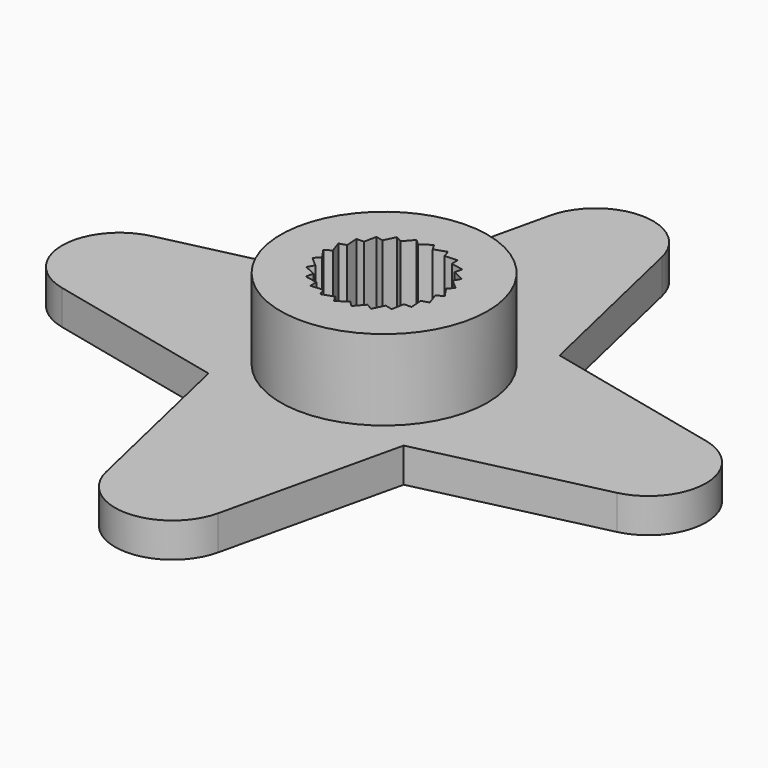
from build123d import *

# Parameters (mm, degrees)
F1_R     = 3.4943107557
F1_R_2   = 3.0428811149
F2_DEPTH = 5
F1_R_3   = 4.5
F3_DEPTH = 5
F0_R     = 4.5
F0_R_2   = 2.5
F0_R_3   = 1.2499972105
F4_DEPTH = 1.5
F5_DEPTH = 5


with BuildPart() as f2:
    # F1 (on Top) → F2 (new body)
    with BuildSketch(Plane.XY):
        with Locations((0.0001326702, 0.0020665845)):
            Circle(F1_R)
        with Locations((-0.0001288142, 0.0001297904)):
            Circle(F1_R_2, mode=Mode.SUBTRACT)
    extrude(amount=F2_DEPTH)

    # F1 (on Top) → F3 (join)
    with BuildSketch(Plane.XY):
        with Locations((-0.0001288142, 0.0001297904)):
            Circle(F1_R_3)
        with Locations((0.0001326702, 0.0020665845)):
            Circle(F1_R, mode=Mode.SUBTRACT)
    extrude(amount=F3_DEPTH)

    # F0 (on Top) + F1 (on Top) → F4 (join)
    with BuildSketch(Plane.XY):
        with BuildLine():
            Line((2.4394025121, -12.0658558892), (4.2479218755, -4.2443155336))
            Line((4.2479218755, -4.2443155336), (12.0694627081, -2.4357959317))
            ThreePointArc((12.0694627081, -2.4357959317), (13.9939445399, 0.0026156227), (12.0586423193, 2.4324482394))
            Line((12.0586423193, 2.4324482394), (4.240708283, 4.2373605681))
            Line((4.240708283, 4.2373605681), (2.4321889196, 12.0589037848))
            ThreePointArc((2.4321889196, 12.0589037848), (-0.0037356104, 13.9965222261), (-2.4396601404, 12.0589037848))
            Line((-2.4396601404, 12.0589037848), (-4.2436064604, 4.240965457))
            Line((-4.2436064604, 4.240965457), (-12.0625067438, 2.4360531283))
            ThreePointArc((-12.0625067438, 2.4360531283), (-14.000128813, 0.0001285983), (-12.0625067438, -2.4357959317))
            Line((-12.0625067438, -2.4357959317), (-4.2409659113, -4.2443155336))
            Line((-4.2409659113, -4.2443155336), (-2.4324465479, -12.0658558892))
            ThreePointArc((-2.4324465479, -12.0658558892), (0.0034779821, -14.0034779629), (2.4394025121, -12.0658558892))
        make_face()
        with Locations((-0.0001288142, 0.0001297904)):
            Circle(F0_R, mode=Mode.SUBTRACT)
        with Locations((-0.0001288142, 0.0001297904)):
            Circle(F0_R)
        with Locations((-0.0001288142, 0.0001297904)):
            Circle(F0_R_2, mode=Mode.SUBTRACT)
        with Locations((-0.0001288142, 0.0001297904)):
            Circle(F0_R_2)
        with Locations((-0.0001288142, 0.0001297904)):
            Circle(F0_R_3, mode=Mode.SUBTRACT)
    with BuildSketch(Plane.XY):
        with Locations((0.0001326702, 0.0020665845)):
            Circle(F1_R)
        with Locations((-0.0001288142, 0.0001297904)):
            Circle(F1_R_2, mode=Mode.SUBTRACT)
    extrude(amount=F4_DEPTH)

    # F1 (on Top) → F5 (join)
    with BuildSketch(Plane.XY):
        with Locations((-0.0001288142, 0.0001297904)):
            Circle(F1_R_2)
        Polygon((2.5888910537, 0.6508482021), (2.3615180848, 0.4162336288), (2.6700632073, -0.0415643753), (2.3897163069, -0.2093383499), (2.5692487953, -0.7313942032), (2.2550279187, -0.8208914163), (2.2933322567, -1.3716230342), (1.9666683684, -1.3767441826), (1.861117768, -1.9186296846), (1.5442495959, -1.8390229053), (1.3020652759, -2.3351228771), (1.0165907184, -2.1762260286), (0.6542527165, -2.5927414983), (0.419636276, -2.3653667199), (-0.0381593369, -2.6739021736), (-0.2059394501, -2.3935590213), (-0.7279900472, -2.5731005304), (-0.8174879323, -2.2588772947), (-1.3682272049, -2.2971816047), (-1.3733483173, -1.9705116288), (-1.9152342451, -1.8649690028), (-1.8356267052, -1.5480978036), (-2.3317276079, -1.3059049719), (-2.1728300866, -1.0204375874), (-2.5893344069, -0.6580942182), (-2.3619698137, -0.4234796389), (-2.6705078515, 0.0343198084), (-2.3901622681, 0.2020929949), (-2.5696944667, 0.7241480054), (-2.2554814608, 0.813645364), (-2.2937858509, 1.36437773), (-1.9671157465, 1.3694988444), (-1.8615737238, 1.9113816752), (-1.5447023894, 1.8317824829), (-1.3025083802, 2.3278777401), (-1.0170415808, 2.1689805445), (-0.6546890428, 2.5854941996), (-0.4200746079, 2.3581213648), (0.037725635, 2.6666599388), (0.205490485, 2.3863142801), (0.7275579628, 2.5658560526), (0.8170392653, 2.2516321833), (1.3677844908, 2.2899363469), (1.3728972309, 1.9632657859), (1.9147806544, 1.8577236477), (1.8351731146, 1.5408524485), (2.3312740172, 1.2986596169), (2.1723769594, 1.0131930648), align=None, mode=Mode.SUBTRACT)
    extrude(amount=F5_DEPTH)


solid = f2.part
